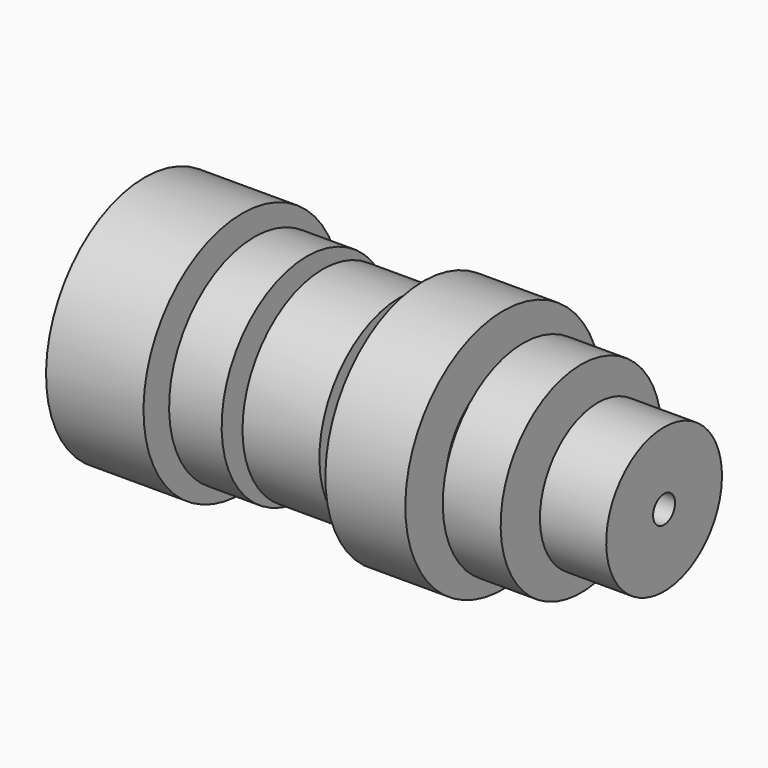
from build123d import *


with BuildPart() as f1:
    # F0 (on Front) → F1 (revolve)
    with BuildSketch(Plane.XZ):
        Polygon((-87.125003, -11.127603), (-87.125003, -47.127608), (83.374999, -47.127608), (83.374999, -27.877605), (61.625004, -27.877605), (61.625004, -36.377605), (56.125, -36.377605), (56.125, -18.627604), (37.124999, -18.627604), (37.124999, -27.877605), (30.624999, -27.877605), (30.624999, -11.377604), (4.374998, -11.377604), (4.374998, -27.877605), (-3.375002, -27.877605), (-3.375002, -18.627604), (-28.625002, -18.627604), (-28.625002, -29.627604), (-33.875003, -29.627604), (-33.875003, -16.627604), (-51.125001, -16.627604), (-51.125001, -25.877604), (-55.125006, -25.877604), (-55.125006, -11.127603), align=None)
    revolve(axis=Axis((-2.500001, 0, -51.627606), (1, 0, 0)))


solid = f1.part
